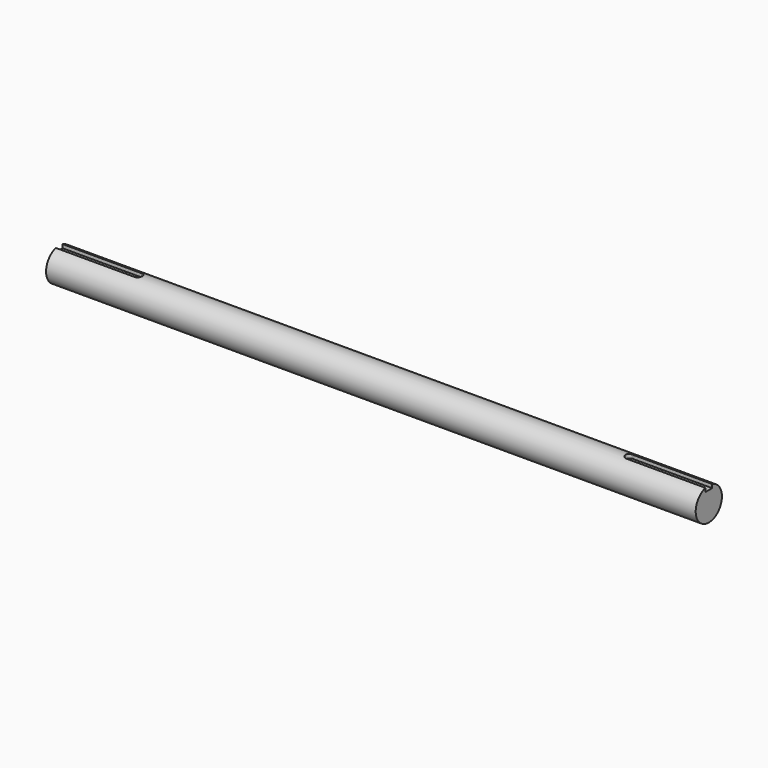
from build123d import *

# Parameters (mm, degrees)
F0_R     = 50.00625
F1_DEPTH = 990.6
F3_DEPTH = 12.7254


with BuildPart() as f1:
    # F0 (on Right) → F1 (new body, symmetric)
    with BuildSketch(Plane.YZ):
        with Locations((0, -50.00625)):
            Circle(F0_R)
    extrude(amount=F1_DEPTH, both=True)

    # F2 (on Top) → F3 (cut)
    with BuildSketch(Plane.XY):
        with BuildLine():
            Line((-749.3, 12.7), (-990.6, 12.7))
            Line((-990.6, 12.7), (-990.6, -12.7))
            Line((-990.6, -12.7), (-749.3, -12.7))
            ThreePointArc((-749.3, -12.7), (-740.319744, -8.980256), (-736.6, 0))
            ThreePointArc((-736.6, 0), (-740.319744, 8.980256), (-749.3, 12.7))
        make_face()
        with BuildLine():
            Line((990.6, -12.7), (990.6, 12.7))
            Line((990.6, 12.7), (749.3, 12.7))
            ThreePointArc((749.3, 12.7), (740.319744, 8.980256), (736.6, 0))
            ThreePointArc((736.6, 0), (740.319744, -8.980256), (749.3, -12.7))
            Line((749.3, -12.7), (990.6, -12.7))
        make_face()
    extrude(amount=-F3_DEPTH, mode=Mode.SUBTRACT)


solid = f1.part
